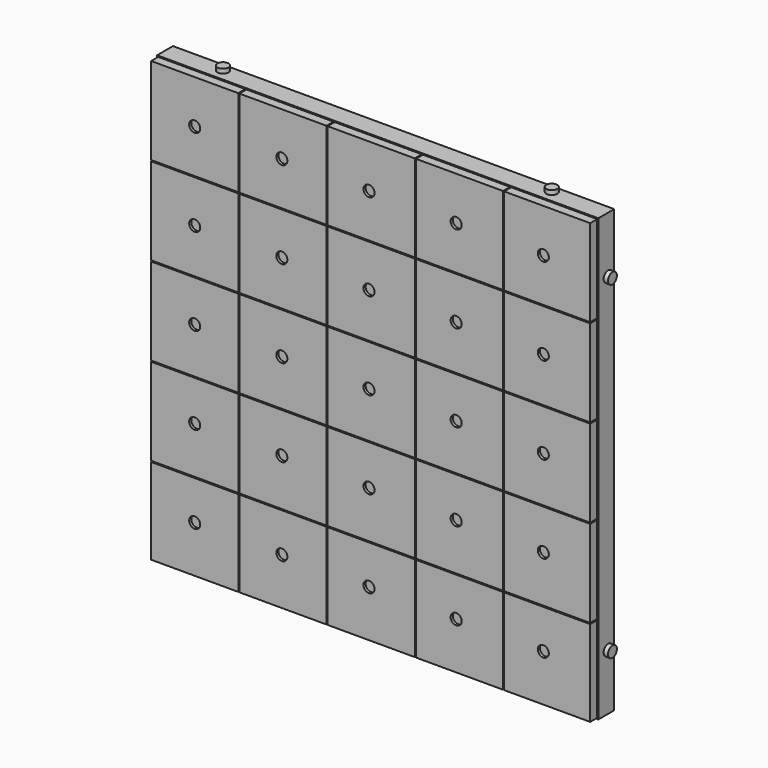
from build123d import *

# Parameters (mm, degrees)
F0_W      = 200
F0_H      = 200
F1_DEPTH  = 15
F3_DEPTH  = 5
F2_W      = 200
F2_H      = 0.5
F4_DEPTH  = 4
F5_W      = 0.5
F5_H      = 200
F6_DEPTH  = 4
F8_DEPTH  = 4
F9_R      = 2.5
F10_DEPTH = 1.2
F11_R     = 2.5
F12_DEPTH = 2
F13_R     = 2.5
F14_DEPTH = 2
F15_SIZE  = 2
F16_R     = 2.5
F17_DEPTH = 2
F18_R     = 2.5
F19_DEPTH = 2


with BuildPart() as f1:
    # F0 (on Front) → F1 (new body)
    with BuildSketch(Plane.XZ):
        Rectangle(F0_W, F0_H)
        Rectangle(F0_W, F0_H)
    extrude(amount=F1_DEPTH)

    # F2 (on face) → F4 (cut)
    with BuildSketch(Plane.XZ.offset(15)):
        with Locations((0, 99.75)):
            Rectangle(F2_W, F2_H)
        with Locations((0, 59.75)):
            Rectangle(F2_W, F2_H)
        with Locations((0, 19.75)):
            Rectangle(F2_W, F2_H)
        with Locations((0, -20.25)):
            Rectangle(F2_W, F2_H)
        with Locations((0, -60.25)):
            Rectangle(F2_W, F2_H)
        with Locations((0, -100.25)):
            Rectangle(F2_W, F2_H)
    extrude(amount=-F4_DEPTH, mode=Mode.SUBTRACT)

    # F5 (on face) → F6 (cut)
    with BuildSketch(Plane.XZ.offset(15)):
        with Locations((-99.75, 0)):
            Rectangle(F5_W, F5_H)
        with Locations((-59.75, 0)):
            Rectangle(F5_W, F5_H)
        with Locations((-19.75, 0)):
            Rectangle(F5_W, F5_H)
        with Locations((20.25, 0)):
            Rectangle(F5_W, F5_H)
        with Locations((60.25, 0)):
            Rectangle(F5_W, F5_H)
        with Locations((100.25, 0)):
            Rectangle(F5_W, F5_H)
    extrude(amount=-F6_DEPTH, mode=Mode.SUBTRACT)

    # F7 (on face) → F8 (cut)
    with BuildSketch(Plane.XZ.offset(15)):
        Polygon((-100, -99.5), (-100, -100), (99.5, -100), (100, -100), (100, -99.5), (100, 99.5), (99.5, 99.5), (99.5, -99.5), align=None)
    extrude(amount=-F8_DEPTH, mode=Mode.SUBTRACT)

    # F9 (on face) → F10 (cut)
    with BuildSketch(Plane.XZ.offset(15)):
        with Locations((-79.75, 79.75)):
            Circle(F9_R)
        with Locations((-79.75, 40.25)):
            Circle(F9_R)
        with Locations((-79.75, 0.75)):
            Circle(F9_R)
        with Locations((-79.75, -38.75)):
            Circle(F9_R)
        with Locations((-79.75, -78.25)):
            Circle(F9_R)
        with Locations((-40.25, 79.75)):
            Circle(F9_R)
        with Locations((-40.25, 40.25)):
            Circle(F9_R)
        with Locations((-40.25, 0.75)):
            Circle(F9_R)
        with Locations((-40.25, -38.75)):
            Circle(F9_R)
        with Locations((-40.25, -78.25)):
            Circle(F9_R)
        with Locations((-0.75, 79.75)):
            Circle(F9_R)
        with Locations((-0.75, 40.25)):
            Circle(F9_R)
        with Locations((-0.75, 0.75)):
            Circle(F9_R)
        with Locations((-0.75, -38.75)):
            Circle(F9_R)
        with Locations((-0.75, -78.25)):
            Circle(F9_R)
        with Locations((38.75, 79.75)):
            Circle(F9_R)
        with Locations((38.75, 40.25)):
            Circle(F9_R)
        with Locations((38.75, 0.75)):
            Circle(F9_R)
        with Locations((38.75, -38.75)):
            Circle(F9_R)
        with Locations((38.75, -78.25)):
            Circle(F9_R)
        with Locations((78.25, 79.75)):
            Circle(F9_R)
        with Locations((78.25, 40.25)):
            Circle(F9_R)
        with Locations((78.25, 0.75)):
            Circle(F9_R)
        with Locations((78.25, -38.75)):
            Circle(F9_R)
        with Locations((78.25, -78.25)):
            Circle(F9_R)
    extrude(amount=-F10_DEPTH, mode=Mode.SUBTRACT)



with BuildPart() as f3:
    # F0 (on Front) → F3 (new body)
    with BuildSketch(Plane.XZ):
        Rectangle(F0_W, F0_H)
    extrude(amount=F3_DEPTH)


with BuildPart() as f1_1:
    add(f1.part)

    add(f3.part)  # F12 merges F3
    # F11 (on face) → F12 (join)
    with BuildSketch(Plane.YZ.offset(100)):
        with Locations((-5.5, -74.5)):
            Circle(F11_R)
        with Locations((-5.5, 74.5)):
            Circle(F11_R)
    extrude(amount=F12_DEPTH)

    # F13 (on face) → F14 (join)
    with BuildSketch(Plane(origin=(0, 0, -100), x_dir=(1, 0, 0), z_dir=(0, 0, -1))):
        with Locations((-74.5, 5.5)):
            Circle(F13_R)
        with Locations((74.5, 5.5)):
            Circle(F13_R)
    extrude(amount=F14_DEPTH)

    # F15
    f15_edges = [f1_1.edges().sort_by_distance(p)[0] for p in [
        (0, 0, -100),
        (100, 0, 0),
        (0, 0, 100),
        (-100, 0, 0),
    ]]
    chamfer(f15_edges, length=F15_SIZE)

    # F16 (on face) → F17 (join)
    with BuildSketch(Plane(origin=(-100, 0, 0), x_dir=(0, -1, 0), z_dir=(-1, 0, 0))):
        with Locations((5.5, -74.5)):
            Circle(F16_R)
        with Locations((5.5, 74.5)):
            Circle(F16_R)
    extrude(amount=F17_DEPTH)

    # F18 (on face) → F19 (join)
    with BuildSketch(Plane.XY.offset(100)):
        with Locations((74.5, -5.5)):
            Circle(F18_R)
        with Locations((-74.5, -5.5)):
            Circle(F18_R)
    extrude(amount=F19_DEPTH)


solid = f1_1.part
